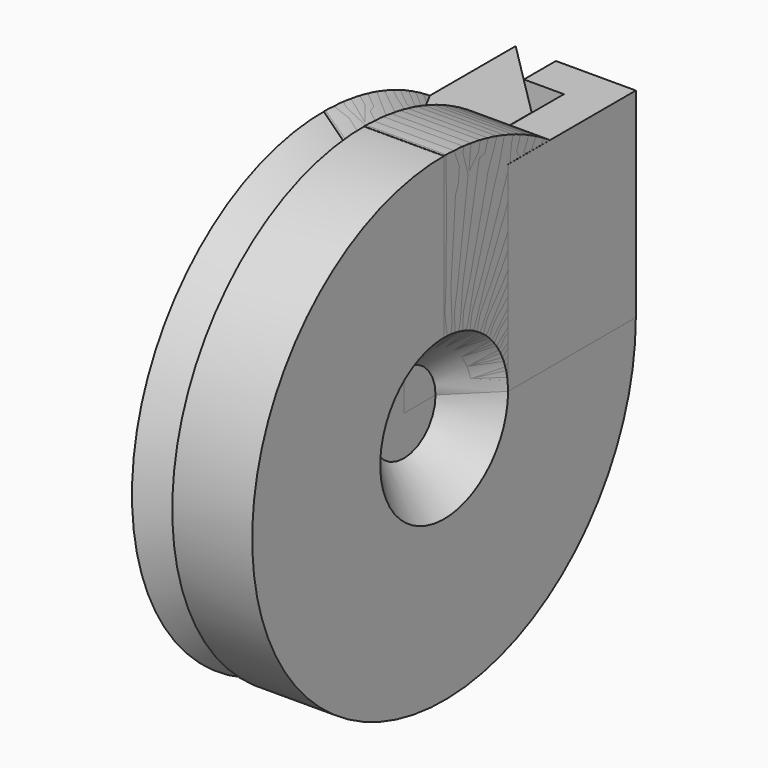
from build123d import *

# Parameters (mm, degrees)
F1_DEPTH = 127
F4_ANGLE = 90
F6_DEPTH = 127
F9_ANGLE = 90


with BuildPart() as f1:
    # F0 (on Top) → F1 (new body)
    with BuildSketch(Plane.XY):
        Polygon((0, 152.4), (0, 0), (50.8, 0), (50.8, 25.4), (25.4, 25.4), (25.4, 50.8), (50.8, 50.8), (50.8, 101.6), align=None)
    extrude(amount=F1_DEPTH)


with BuildPart() as f2:
    # F0 (on Top) → F2 (revolve)
    with BuildSketch(Plane.XY):
        Polygon((0, 152.4), (0, 0), (50.8, 0), (50.8, 25.4), (25.4, 25.4), (25.4, 50.8), (50.8, 50.8), (50.8, 101.6), align=None)
    revolve(axis=Axis((25.4, 0, 0), (1, 0, 0)))


with BuildPart() as f3:
    # F0 (on Top) → F3 (revolve)
    with BuildSketch(Plane.XY):
        Polygon((0, 152.4), (0, 0), (50.8, 0), (50.8, 25.4), (25.4, 25.4), (25.4, 50.8), (50.8, 50.8), (50.8, 101.6), align=None)
    revolve(axis=Axis((0, 76.2, 0), (0, 1, 0)))


with BuildPart() as f4:
    # F0 (on Top) → F4 (revolve)
    with BuildSketch(Plane.XY):
        Polygon((0, 152.4), (0, 0), (50.8, 0), (50.8, 25.4), (25.4, 25.4), (25.4, 50.8), (50.8, 50.8), (50.8, 101.6), align=None)
    revolve(axis=Axis((25.4, 0, 0), (1, 0, 0)), revolution_arc=F4_ANGLE)


with BuildPart() as f6:
    # F5 (on Top) → F6 (new body)
    with BuildSketch(Plane.XY):
        Polygon((50.9788915515, 76.1790499091), (0, 50.8), (0, 0), (25.4, 0), (76.4664423498, 50.7790876313), (76.3788915515, 152.3790499091), (25.5788915515, 152.3790499091), (25.5788915515, 126.9790499091), (50.9788915515, 126.9790499091), align=None)
    extrude(amount=F6_DEPTH)


with BuildPart() as f7:
    # F5 (on Top) → F7 (revolve)
    with BuildSketch(Plane.XY):
        Polygon((50.9788915515, 76.1790499091), (0, 50.8), (0, 0), (25.4, 0), (76.4664423498, 50.7790876313), (76.3788915515, 152.3790499091), (25.5788915515, 152.3790499091), (25.5788915515, 126.9790499091), (50.9788915515, 126.9790499091), align=None)
    revolve(axis=Axis((0, 25.4, 0), (0, -1, 0)))


with BuildPart() as f8:
    # F5 (on Top) → F8 (revolve)
    with BuildSketch(Plane.XY):
        Polygon((50.9788915515, 76.1790499091), (0, 50.8), (0, 0), (25.4, 0), (76.4664423498, 50.7790876313), (76.3788915515, 152.3790499091), (25.5788915515, 152.3790499091), (25.5788915515, 126.9790499091), (50.9788915515, 126.9790499091), align=None)
    revolve(axis=Axis((12.7, 0, 0), (1, 0, 0)))


with BuildPart() as f9:
    # F5 (on Top) → F9 (revolve)
    with BuildSketch(Plane.XY):
        Polygon((50.9788915515, 76.1790499091), (0, 50.8), (0, 0), (25.4, 0), (76.4664423498, 50.7790876313), (76.3788915515, 152.3790499091), (25.5788915515, 152.3790499091), (25.5788915515, 126.9790499091), (50.9788915515, 126.9790499091), align=None)
    revolve(axis=Axis((12.7, 0, 0), (1, 0, 0)), revolution_arc=F9_ANGLE)


solid = Compound([f1.part, f2.part, f3.part, f4.part, f6.part, f7.part, f8.part, f9.part])
